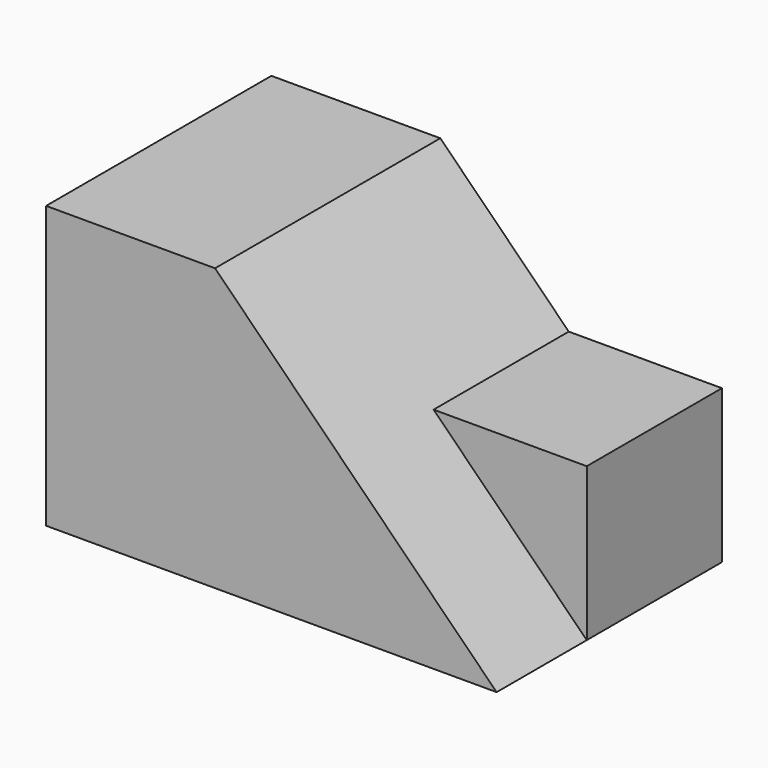
from build123d import *

# Parameters (mm, degrees)
F0_W     = 50.8
F0_H     = 31.75
F1_DEPTH = 31.75
F3_DEPTH = 12.7
F5_DEPTH = 25.4
F7_DEPTH = 25.4


with BuildPart() as f1:
    # F0 (on Front) → F1 (new body)
    with BuildSketch(Plane.XZ):
        with Locations((25.4, 15.875)):
            Rectangle(F0_W, F0_H)
    extrude(amount=F1_DEPTH)

    # F2 (on face) → F3 (cut)
    with BuildSketch(Plane.XZ.offset(31.75)):
        Polygon((50.8, 31.75), (19.05, 31.75), (50.8, 0), align=None)
    extrude(amount=-F3_DEPTH, mode=Mode.SUBTRACT)

    # F4 (on face) → F5 (cut)
    with BuildSketch(Plane(origin=(0, 0, 0), x_dir=(-1, 0, 0), z_dir=(0, 1, 0))):
        Polygon((-38.1, 17.2671154141), (-25.4, 31.75), (-50.8, 31.75), (-50.8, 17.2671154141), align=None)
    extrude(amount=-F5_DEPTH, mode=Mode.SUBTRACT)

    # F6 (on face) → F7 (cut)
    with BuildSketch(Plane.XZ.offset(19.05)):
        Polygon((33.5328845859, 17.2671154141), (38.1, 17.2671154141), (25.4, 31.75), (19.05, 31.75), align=None)
    extrude(amount=-F7_DEPTH, mode=Mode.SUBTRACT)


solid = f1.part
